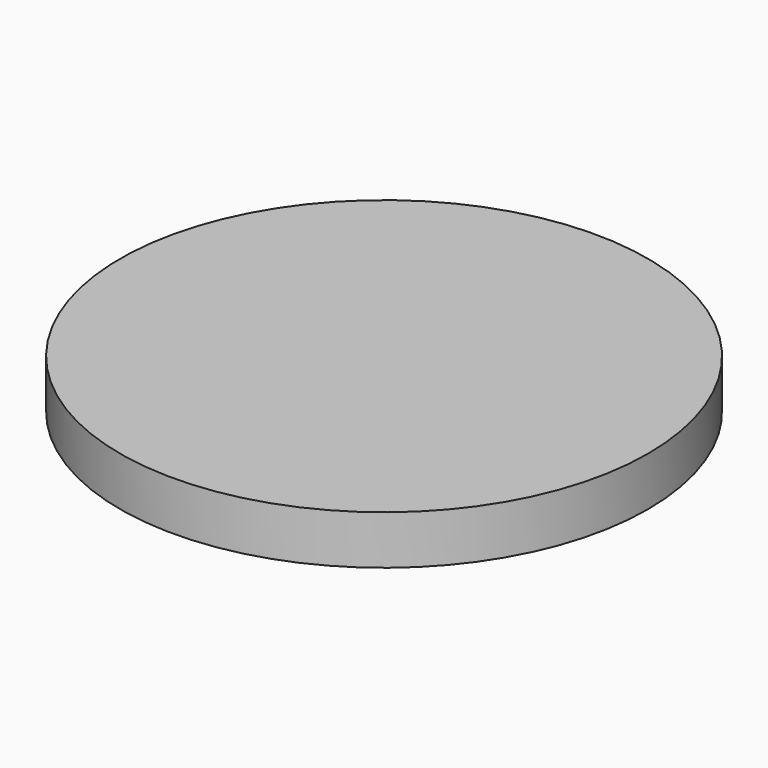
from build123d import *

# Parameters (mm, degrees)
F0_R     = 10.5537
F1_DEPTH = 1.9558


with BuildPart() as f1:
    # F0 (on Top) → F1 (new body)
    with BuildSketch(Plane.XY):
        Circle(F0_R)
    extrude(amount=F1_DEPTH)


with BuildPart() as f1_1:
    # F2: moved
    add(f1.part.moved(Location((0, 0, -1.9558))))


solid = f1_1.part
